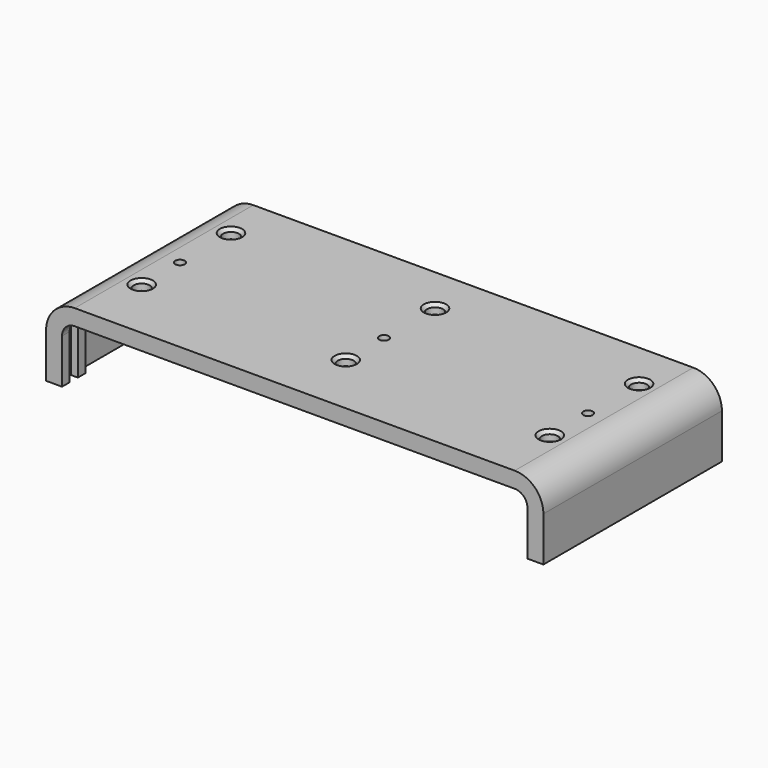
from build123d import *

# Parameters (mm, degrees)
SKETCH002_R     = 1.5
POCKET_DEPTH    = 23.001
SKETCH003_R     = 4
PAD_DEPTH       = 5.4
SKETCH004_R     = 1
POCKET001_DEPTH = 8.201
SKETCH005_R     = 2.5
POCKET002_DEPTH = 3
CHAMFER_SIZE    = 1
CHAMFER001_SIZE = 1
CHAMFER002_SIZE = 1
CHAMFER003_SIZE = 1
CHAMFER004_SIZE = 1
CHAMFER005_SIZE = 1


with BuildPart() as part:
    # AdditivePipe: sweep along a path in Sketch001
    with BuildLine(Plane.XZ) as additivepipe_path:
        Line((-73, -18), (-73, -4))
        ThreePointArc((-73, -4), (-71.828427, -1.171573), (-69, 0))
        Line((-69, 0), (0, 0))
        Line((0, 0), (69, 0))
        ThreePointArc((69, 0), (71.828427, -1.171573), (73, -4))
        Line((73, -4), (73, -18))
    # Sketch → AdditivePipe (sweep)
    with BuildSketch(Plane.YZ):
        Polygon((0, 5), (70, 5), (70, 0), (67, 0), (67, 2.2), (63.8, 2.2), (63.8, 0), (60.8, 0), (60.8, 2.2), (9.2, 2.2), (9.2, 0), (6.2, 0), (6.2, 2.2), (3, 2.2), (3, 0), (0, 0), align=None)
    sweep(path=additivepipe_path.line)

    # Sketch002 (on Face35 of AdditivePipe) → Pocket (cut, through all)
    with BuildSketch(Plane(origin=(0, 0, 5), x_dir=(0, -1, 0), z_dir=(0, 0, 1))):
        with Locations((-35, -64)):
            Circle(SKETCH002_R)
        with Locations((-35, 64)):
            Circle(SKETCH002_R)
        with Locations((-35, 0)):
            Circle(SKETCH002_R)
    extrude(amount=-POCKET_DEPTH, mode=Mode.SUBTRACT)

    # Sketch003 (on Face43 of Pocket) → Pad (join)
    with BuildSketch(Plane.YX.offset(-2.2)):
        with Locations((20, 64)):
            Circle(SKETCH003_R)
        with Locations((55, 64)):
            Circle(SKETCH003_R)
        with Locations((20, 0)):
            Circle(SKETCH003_R)
        with Locations((55, 0)):
            Circle(SKETCH003_R)
        with Locations((20, -64)):
            Circle(SKETCH003_R)
        with Locations((55, -64)):
            Circle(SKETCH003_R)
    extrude(amount=PAD_DEPTH)

    # Sketch004 (on Face88 of Pad) → Pocket001 (cut, through all)
    with BuildSketch(Plane.YX.offset(3.2)):
        with Locations((20, -64)):
            Circle(SKETCH004_R)
        with Locations((55, -64)):
            Circle(SKETCH004_R)
        with Locations((55, 0)):
            Circle(SKETCH004_R)
        with Locations((20, 0)):
            Circle(SKETCH004_R)
        with Locations((20, 64)):
            Circle(SKETCH004_R)
        with Locations((55, 64)):
            Circle(SKETCH004_R)
    extrude(amount=-POCKET001_DEPTH, mode=Mode.SUBTRACT)

    # Sketch005 (on Face35 of Pocket001) → Pocket002 (cut)
    with BuildSketch(Plane(origin=(0, 0, 5), x_dir=(0, -1, 0), z_dir=(0, 0, 1))):
        with Locations((-55, 64)):
            Circle(SKETCH005_R)
        with Locations((-20, 64)):
            Circle(SKETCH005_R)
        with Locations((-55, 0)):
            Circle(SKETCH005_R)
        with Locations((-20, 0)):
            Circle(SKETCH005_R)
        with Locations((-55, -64)):
            Circle(SKETCH005_R)
        with Locations((-20, -64)):
            Circle(SKETCH005_R)
    extrude(amount=-POCKET002_DEPTH, mode=Mode.SUBTRACT)

    # Chamfer
    chamfer_edges = [part.edges().sort_by_distance(p)[0] for p in [
        (-64, 57.5, 5),
    ]]
    chamfer(chamfer_edges, length=CHAMFER_SIZE)

    # Chamfer001
    chamfer001_edges = [part.edges().sort_by_distance(p)[0] for p in [
        (-2.5, 55, 5),
        (2.5, 55, 5),
    ]]
    chamfer(chamfer001_edges, length=CHAMFER001_SIZE)

    # Chamfer002
    chamfer002_edges = [part.edges().sort_by_distance(p)[0] for p in [
        (64, 57.5, 5),
    ]]
    chamfer(chamfer002_edges, length=CHAMFER002_SIZE)

    # Chamfer003
    chamfer003_edges = [part.edges().sort_by_distance(p)[0] for p in [
        (64, 22.5, 5),
    ]]
    chamfer(chamfer003_edges, length=CHAMFER003_SIZE)

    # Chamfer004
    chamfer004_edges = [part.edges().sort_by_distance(p)[0] for p in [
        (-2.5, 20, 5),
        (2.5, 20, 5),
    ]]
    chamfer(chamfer004_edges, length=CHAMFER004_SIZE)

    # Chamfer005
    chamfer005_edges = [part.edges().sort_by_distance(p)[0] for p in [
        (-64, 22.5, 5),
    ]]
    chamfer(chamfer005_edges, length=CHAMFER005_SIZE)


solid = part.part
